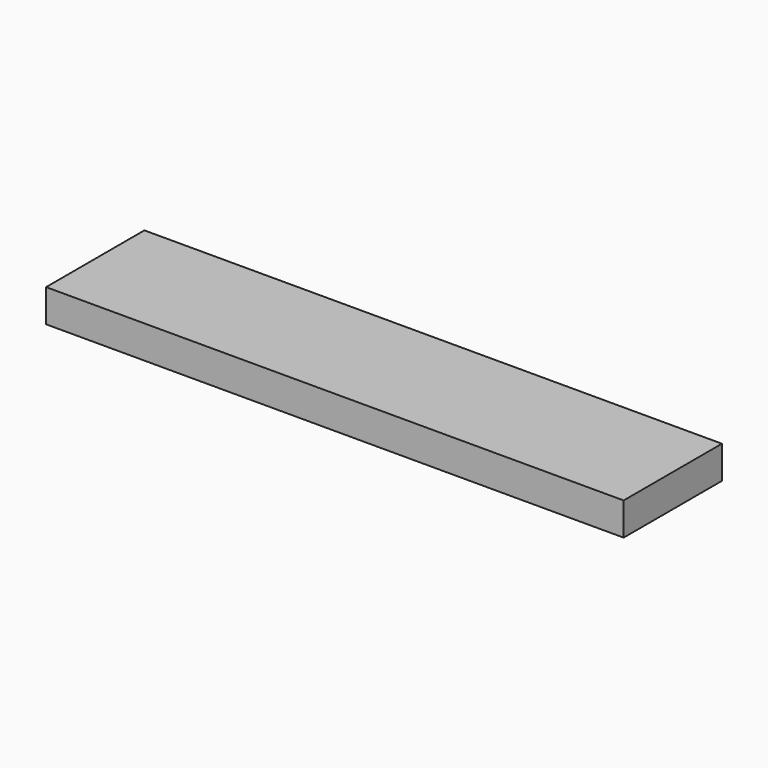
from build123d import *

# Parameters (mm, degrees)
F0_W     = 75
F0_H     = 20
F1_DEPTH = 176.25


with BuildPart() as f1:
    # F0 (on Right) → F1 (new body, symmetric)
    with BuildSketch(Plane.YZ):
        Rectangle(F0_W, F0_H)
        Rectangle(F0_W, F0_H)
    extrude(amount=F1_DEPTH, both=True)


solid = f1.part
